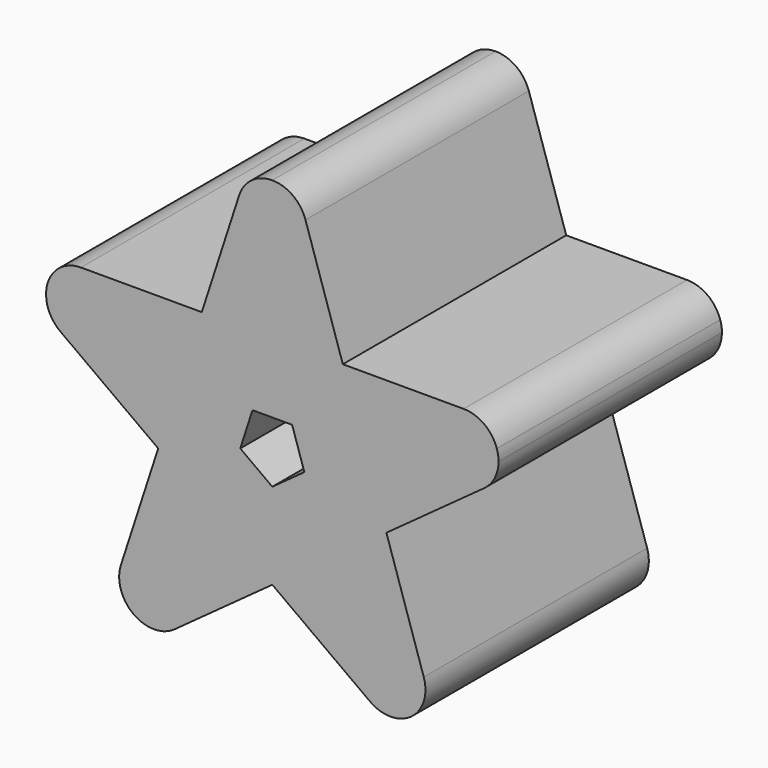
from build123d import *

# Parameters (mm, degrees)
F1_DEPTH = 25.4
F2_DEPTH = 25.4
F3_DEPTH = 25.4
F4_DEPTH = 25.4
F5_DEPTH = 25.4


with BuildPart() as f1:
    # F0 (on Front) → F1 (new body)
    with BuildSketch(Plane.XZ):
        with BuildLine():
            ThreePointArc((3.0196044392, 17.3193664988), (3.1359104814, 17.8038160294), (3.175, 18.3004954559))
            ThreePointArc((3.175, 18.3004954559), (3.1359104814, 18.7971748824), (3.0196044392, 19.2816244131))
            ThreePointArc((3.0196044392, 19.2816244131), (1.8662181994, 20.8691243961), (5.78e-08, 21.4754954559))
            ThreePointArc((5.78e-08, 21.4754954559), (-1.866217236, 20.869125096), (-3.019603739, 19.2816265682))
            ThreePointArc((-3.019603739, 19.2816265682), (-3.175, 18.3004954559), (-3.019603739, 17.3193643436))
            ThreePointArc((-3.019603739, 17.3193643436), (1.133e-06, 15.1254954559), (3.0196044392, 17.3193664988))
        make_face()
        with BuildLine():
            Line((0.261295375, 8.8301641014), (3.0196044392, 17.3193664988))
            ThreePointArc((3.0196044392, 17.3193664988), (1.133e-06, 15.1254954559), (-3.019603739, 17.3193643436))
            Line((-3.019603739, 17.3193643436), (-0.261295375, 8.8301641014))
            Line((-0.261295375, 8.8301641014), (0.261295375, 8.8301641014))
        make_face()
        with BuildLine():
            Line((-0.261295375, 8.8301641014), (-3.019603739, 17.3193643436))
            ThreePointArc((-3.019603739, 17.3193643436), (-3.175, 18.3004954559), (-3.019603739, 19.2816265682))
            Line((-3.019603739, 19.2816265682), (-6.4154897489, 8.8301641014))
            Line((-6.4154897489, 8.8301641014), (-0.261295375, 8.8301641014))
        make_face()
        Polygon((0, 8.0259796274), (-0.261295375, 8.8301641014), (-6.4154897489, 8.8301641014), (-8.3172403971, 2.9771774395), (-7.6331602243, 2.4801641014), (-1.8019446961, 2.4801641014), align=None)
        Polygon((-2.9156077641, -0.947338389), (-1.8019446961, 2.4801641014), (-7.6331602243, 2.4801641014), align=None)
        Polygon((-4.7175524602, -6.493153915), (-2.9156077641, -0.947338389), (-7.6331602243, 2.4801641014), (-8.47872982, 2.4801641014), (-10.3804804682, -3.3728225605), (-5.401632633, -6.9901672532), align=None)
        with BuildLine():
            Line((-5.401632633, -6.9901672532), (-10.3804804682, -3.3728225605))
            Line((-10.3804804682, -3.3728225605), (-13.7763657779, -13.8242828722))
            ThreePointArc((-13.7763657779, -13.8242828722), (-13.3253902958, -12.9391936533), (-12.6229795147, -12.2367828722))
            Line((-12.6229795147, -12.2367828722), (-5.401632633, -6.9901672532))
        make_face()
        with BuildLine():
            Line((-4.9788478352, -7.297338389), (-5.401632633, -6.9901672532))
            Line((-5.401632633, -6.9901672532), (-12.6229795147, -12.2367828722))
            ThreePointArc((-12.6229795147, -12.2367828722), (-9.315341502, -11.976466115), (-7.5817613386, -14.8054118293))
            ThreePointArc((-7.5817613386, -14.8054118293), (-7.6208508572, -15.3020912558), (-7.7371568994, -15.7865407865))
            Line((-7.7371568994, -15.7865407865), (-4.9788478352, -7.297338389))
        make_face()
        with BuildLine():
            ThreePointArc((-13.7763657779, -13.8242828722), (-13.7763657849, -15.7865407647), (-12.6229795517, -17.3740407596))
            ThreePointArc((-12.6229795517, -17.3740407596), (-10.7567613615, -17.9804118293), (-8.8905431626, -17.3740407865))
            ThreePointArc((-8.8905431626, -17.3740407865), (-8.1881323815, -16.6716300054), (-7.7371568994, -15.7865407865))
            ThreePointArc((-7.7371568994, -15.7865407865), (-7.6208508572, -15.3020912558), (-7.5817613386, -14.8054118293))
            ThreePointArc((-7.5817613386, -14.8054118293), (-9.315341502, -11.976466115), (-12.6229795147, -12.2367828722))
            ThreePointArc((-12.6229795147, -12.2367828722), (-13.3253902958, -12.9391936533), (-13.7763657779, -13.8242828722))
        make_face()
        Polygon((0, 8.0259796274), (0.261295375, 8.8301641014), (-0.261295375, 8.8301641014), align=None)
        Polygon((-4.9788478352, -7.297338389), (-4.7175524602, -6.493153915), (-5.401632633, -6.9901672532), align=None)
        Polygon((-7.6331602243, 2.4801641014), (-8.3172403971, 2.9771774395), (-8.47872982, 2.4801641014), align=None)
    extrude(amount=F1_DEPTH)

    # F0 (on Front) → F2 (join)
    with BuildSketch(Plane.XZ):
        with BuildLine():
            ThreePointArc((-17.4048054548, 8.8301641014), (-19.2710239415, 8.2237928328), (-20.4244101314, 6.636292328))
            ThreePointArc((-20.4244101314, 6.636292328), (-20.4244097753, 4.674034779), (-19.2710236308, 3.0865351442))
            ThreePointArc((-19.2710236308, 3.0865351442), (-18.3859344119, 2.6355596621), (-17.4048054548, 2.4801641014))
            ThreePointArc((-17.4048054548, 2.4801641014), (-15.1597414245, 3.4101000711), (-14.2298054548, 5.6551641014))
            ThreePointArc((-14.2298054548, 5.6551641014), (-14.5758597405, 7.096583938), (-15.5385872788, 8.2237930585))
            ThreePointArc((-15.5385872788, 8.2237930585), (-16.4236764976, 8.6747685406), (-17.4048054548, 8.8301641014))
        make_face()
        with BuildLine():
            Line((-8.3172403971, 2.9771774395), (-6.4154897489, 8.8301641014))
            Line((-6.4154897489, 8.8301641014), (-17.4048054548, 8.8301641014))
            ThreePointArc((-17.4048054548, 8.8301641014), (-16.4236764976, 8.6747685406), (-15.5385872788, 8.2237930585))
            Line((-15.5385872788, 8.2237930585), (-8.3172403971, 2.9771774395))
        make_face()
        with BuildLine():
            Line((-8.47872982, 2.4801641014), (-8.3172403971, 2.9771774395))
            Line((-8.3172403971, 2.9771774395), (-15.5385872788, 8.2237930585))
            ThreePointArc((-15.5385872788, 8.2237930585), (-14.5758597405, 7.096583938), (-14.2298054548, 5.6551641014))
            ThreePointArc((-14.2298054548, 5.6551641014), (-15.1597414245, 3.4101000711), (-17.4048054548, 2.4801641014))
            Line((-17.4048054548, 2.4801641014), (-8.47872982, 2.4801641014))
        make_face()
        Polygon((1.8019446961, 2.4801641014), (0, 8.0259796274), (-1.8019446961, 2.4801641014), align=None)
        Polygon((8.3172403971, 2.9771774395), (6.4154897489, 8.8301641014), (0.261295375, 8.8301641014), (0, 8.0259796274), (1.8019446961, 2.4801641014), (7.6331602243, 2.4801641014), align=None)
        with BuildLine():
            Line((17.4048054548, 8.8301641014), (6.4154897489, 8.8301641014))
            Line((6.4154897489, 8.8301641014), (8.3172403971, 2.9771774395))
            Line((8.3172403971, 2.9771774395), (15.5385872788, 8.2237930585))
            ThreePointArc((15.5385872788, 8.2237930585), (16.4236764976, 8.6747685406), (17.4048054548, 8.8301641014))
        make_face()
        with BuildLine():
            Line((15.5385872788, 8.2237930585), (8.3172403971, 2.9771774395))
            Line((8.3172403971, 2.9771774395), (8.47872982, 2.4801641014))
            Line((8.47872982, 2.4801641014), (17.4048054548, 2.4801641014))
            ThreePointArc((17.4048054548, 2.4801641014), (14.3852010155, 4.6740351442), (15.5385872788, 8.2237930585))
        make_face()
        with BuildLine():
            ThreePointArc((20.4244101232, 6.6362923532), (19.2710239308, 8.2237928405), (17.4048054548, 8.8301641014))
            ThreePointArc((17.4048054548, 8.8301641014), (16.4236764976, 8.6747685406), (15.5385872788, 8.2237930585))
            ThreePointArc((15.5385872788, 8.2237930585), (14.3852010155, 4.6740351442), (17.4048054548, 2.4801641014))
            ThreePointArc((17.4048054548, 2.4801641014), (18.3859344119, 2.6355596621), (19.2710236308, 3.0865351442))
            ThreePointArc((19.2710236308, 3.0865351442), (20.2337511691, 4.2137442647), (20.5798054548, 5.6551641014))
            ThreePointArc((20.5798054548, 5.6551641014), (20.5407159942, 6.1518431616), (20.4244101232, 6.6362923532))
        make_face()
        Polygon((8.47872982, 2.4801641014), (8.3172403971, 2.9771774395), (7.6331602243, 2.4801641014), align=None)
    extrude(amount=F2_DEPTH)

    # F0 (on Front) → F3 (join)
    with BuildSketch(Plane.XZ):
        with BuildLine():
            ThreePointArc((3.0196044392, 19.2816244131), (3.1359104814, 18.7971748824), (3.175, 18.3004954559))
            ThreePointArc((3.175, 18.3004954559), (3.1359104814, 17.8038160294), (3.0196044392, 17.3193664988))
            Line((3.0196044392, 17.3193664988), (0.261295375, 8.8301641014))
            Line((0.261295375, 8.8301641014), (6.4154897489, 8.8301641014))
            Line((6.4154897489, 8.8301641014), (3.0196044392, 19.2816244131))
        make_face()
        Polygon((2.9156077641, -0.947338389), (7.6331602243, 2.4801641014), (1.8019446961, 2.4801641014), align=None)
        Polygon((10.3804804682, -3.3728225605), (8.47872982, 2.4801641014), (7.6331602243, 2.4801641014), (2.9156077641, -0.947338389), (4.7175524602, -6.493153915), (5.401632633, -6.9901672532), align=None)
        with BuildLine():
            Line((13.7763657779, -13.8242828722), (10.3804804682, -3.3728225605))
            Line((10.3804804682, -3.3728225605), (5.401632633, -6.9901672532))
            Line((5.401632633, -6.9901672532), (12.6229795147, -12.2367828722))
            ThreePointArc((12.6229795147, -12.2367828722), (13.3253902958, -12.9391936533), (13.7763657779, -13.8242828722))
        make_face()
        with BuildLine():
            Line((12.6229795147, -12.2367828722), (5.401632633, -6.9901672532))
            Line((5.401632633, -6.9901672532), (4.9788478352, -7.297338389))
            Line((4.9788478352, -7.297338389), (7.7371568994, -15.7865407865))
            ThreePointArc((7.7371568994, -15.7865407865), (8.8905431626, -12.2367828722), (12.6229795147, -12.2367828722))
        make_face()
        with BuildLine():
            ThreePointArc((8.8905431626, -17.3740407865), (10.7567613452, -17.9804118293), (12.6229795253, -17.3740407787))
            ThreePointArc((12.6229795253, -17.3740407787), (13.5857070559, -16.2468316601), (13.9317613386, -14.8054118293))
            ThreePointArc((13.9317613386, -14.8054118293), (13.89267182, -14.3087324028), (13.7763657779, -13.8242828722))
            ThreePointArc((13.7763657779, -13.8242828722), (13.3253902958, -12.9391936533), (12.6229795147, -12.2367828722))
            ThreePointArc((12.6229795147, -12.2367828722), (8.8905431626, -12.2367828722), (7.7371568994, -15.7865407865))
            ThreePointArc((7.7371568994, -15.7865407865), (8.1881323815, -16.6716300054), (8.8905431626, -17.3740407865))
        make_face()
        Polygon((4.9788478352, -7.297338389), (5.401632633, -6.9901672532), (4.7175524602, -6.493153915), align=None)
    extrude(amount=F3_DEPTH)

    # F0 (on Front) → F4 (join)
    with BuildSketch(Plane.XZ):
        with BuildLine():
            ThreePointArc((-7.7371568994, -15.7865407865), (-8.1881323815, -16.6716300054), (-8.8905431626, -17.3740407865))
            Line((-8.8905431626, -17.3740407865), (0, -10.9146830818))
            Line((0, -10.9146830818), (-4.9788478352, -7.297338389))
            Line((-4.9788478352, -7.297338389), (-7.7371568994, -15.7865407865))
        make_face()
        Polygon((4.9788478352, -7.297338389), (4.7175524602, -6.493153915), (0, -3.0656514246), (-4.7175524602, -6.493153915), (-4.9788478352, -7.297338389), (0, -10.9146830818), align=None)
        Polygon((4.7175524602, -6.493153915), (2.9156077641, -0.947338389), (0, -3.0656514246), align=None)
        with BuildLine():
            Line((17.4048054548, 2.4801641014), (8.47872982, 2.4801641014))
            Line((8.47872982, 2.4801641014), (10.3804804682, -3.3728225605))
            Line((10.3804804682, -3.3728225605), (19.2710236308, 3.0865351442))
            ThreePointArc((19.2710236308, 3.0865351442), (18.3859344119, 2.6355596621), (17.4048054548, 2.4801641014))
        make_face()
    extrude(amount=F4_DEPTH)

    # F0 (on Front) → F5 (join)
    with BuildSketch(Plane.XZ):
        with BuildLine():
            ThreePointArc((-17.4048054548, 2.4801641014), (-18.3859344119, 2.6355596621), (-19.2710236308, 3.0865351442))
            Line((-19.2710236308, 3.0865351442), (-10.3804804682, -3.3728225605))
            Line((-10.3804804682, -3.3728225605), (-8.47872982, 2.4801641014))
            Line((-8.47872982, 2.4801641014), (-17.4048054548, 2.4801641014))
        make_face()
        Polygon((0, -3.0656514246), (-2.9156077641, -0.947338389), (-4.7175524602, -6.493153915), align=None)
        with BuildLine():
            Line((0, -10.9146830818), (8.8905431626, -17.3740407865))
            ThreePointArc((8.8905431626, -17.3740407865), (8.1881323815, -16.6716300054), (7.7371568994, -15.7865407865))
            Line((7.7371568994, -15.7865407865), (4.9788478352, -7.297338389))
            Line((4.9788478352, -7.297338389), (0, -10.9146830818))
        make_face()
    extrude(amount=F5_DEPTH)


solid = f1.part
